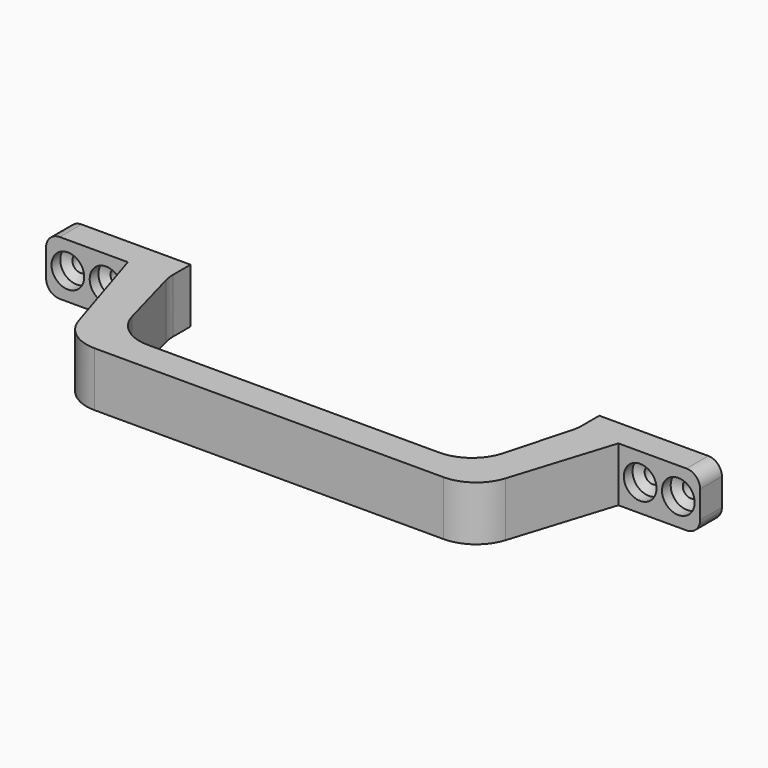
from build123d import *

# Parameters (mm, degrees)
F0_W     = 30
F0_H     = 10
F0_W_2   = 15
F1_DEPTH = 20
F3_D     = 6
F4_D     = 12
F4_DEPTH = 4
F4_TIP   = 3.6051637142
F5_R     = 5
F6_R     = 15


with BuildPart() as f1:
    # F0 (on Top) → F1 (new body)
    with BuildSketch(Plane.XY):
        with Locations((-105, 0)):
            Rectangle(F0_W, F0_H)
        with Locations((-82.5, 0)):
            Rectangle(F0_W_2, F0_H)
        Polygon((-75, -5), (-90, -5), (-75, -52.6969600708), (75, -52.6969600708), (90, -5), (75, -5), (65, -41.5166201833), (-65, -41.5166201833), align=None)
        with Locations((82.5, 0)):
            Rectangle(F0_W_2, F0_H)
        with Locations((105, 0)):
            Rectangle(F0_W, F0_H)
    extrude(amount=F1_DEPTH)

    # F3 (through all)
    with Locations(Plane.XZ.offset(5)):
        with Locations((-112, 10), (-98, 10), (98, 10), (112, 10)):
            Hole(F3_D / 2)

    # F4
    with Locations(Plane.XZ.offset(5)):
        with Locations((-112, 10), (-98, 10), (98, 10), (112, 10)):
            Hole(F4_D / 2, depth=F4_DEPTH)
            with Locations((0, 0, -(F4_DEPTH + F4_TIP / 2))):  # 118° drill point
                Cone(0, F4_D / 2, F4_TIP, mode=Mode.SUBTRACT)

    # F5
    f5_edges = [f1.edges().sort_by_distance(p)[0] for p in [
        (-120, 0, 20),
        (-120, 0, 0),
        (120, 0, 20),
        (120, 0, 0),
    ]]
    fillet(f5_edges, radius=F5_R)

    # F6
    f6_edges = [f1.edges().sort_by_distance(p)[0] for p in [
        (-75, -52.69696, 10),
        (75, -52.69696, 10),
        (-65, -41.51662, 10),
        (65, -41.51662, 10),
        (-75, -5, 10),
        (75, -5, 10),
    ]]
    fillet(f6_edges, radius=F6_R)


solid = f1.part
